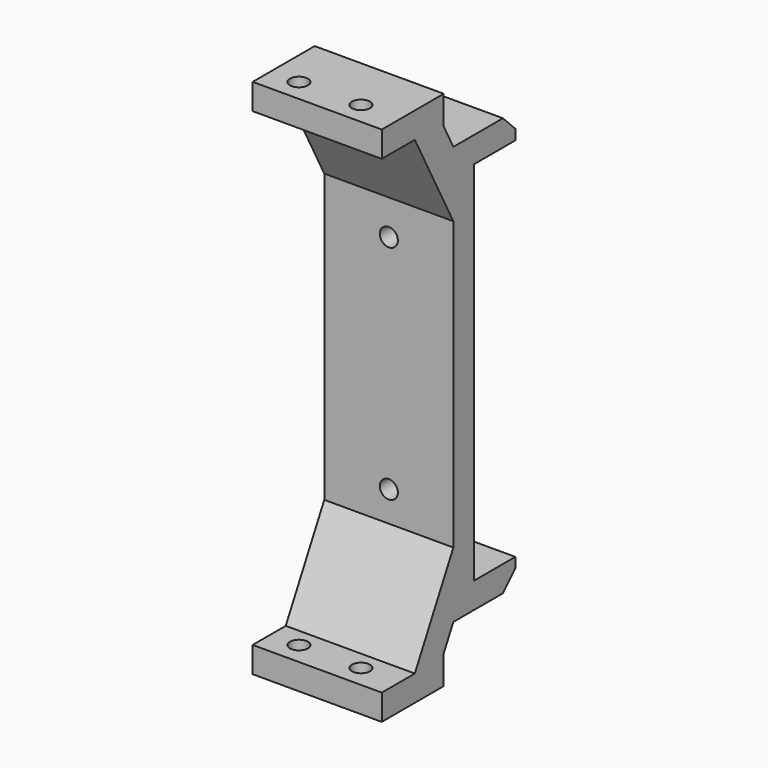
from build123d import *

# Parameters (mm, degrees)
CYLINDER024_R          = 1.75
CYLINDER024_DEPTH      = 20
CYLINDER023_R          = 1.75
CYLINDER023_DEPTH      = 20
CYLINDER022_R          = 1.75
CYLINDER022_DEPTH      = 20
CYLINDER021_R          = 1.75
CYLINDER021_DEPTH      = 20
CYLINDER018_R          = 1.75
CYLINDER018_DEPTH      = 20
CYLINDER018_ROLL_ANGLE = 90
CYLINDER017_R          = 1.75
CYLINDER017_DEPTH      = 20
CYLINDER017_ROLL_ANGLE = 90
PAD006_DEPTH           = 25
CHAMFER006_SIZE        = 3


with BuildPart() as cylinder059:
    # Cylinder024 → Cylinder024 (new body)
    with BuildSketch(Plane(origin=(40, -18, -24), x_dir=(1, 0, 0), z_dir=(0, 0, 1))):
        Circle(CYLINDER024_R)
    extrude(amount=CYLINDER024_DEPTH)


with BuildPart() as cylinder058:
    # Cylinder023 → Cylinder023 (new body)
    with BuildSketch(Plane(origin=(28, -18, -24), x_dir=(1, 0, 0), z_dir=(0, 0, 1))):
        Circle(CYLINDER023_R)
    extrude(amount=CYLINDER023_DEPTH)


with BuildPart() as cylinder057:
    # Cylinder022 → Cylinder022 (new body)
    with BuildSketch(Plane(origin=(40, -18, 77), x_dir=(1, 0, 0), z_dir=(0, 0, 1))):
        Circle(CYLINDER022_R)
    extrude(amount=CYLINDER022_DEPTH)


with BuildPart() as cylinder056:
    # Cylinder021 → Cylinder021 (new body)
    with BuildSketch(Plane(origin=(28, -18, 77), x_dir=(1, 0, 0), z_dir=(0, 0, 1))):
        Circle(CYLINDER021_R)
    extrude(amount=CYLINDER021_DEPTH)


with BuildPart() as cylinder053:
    # Cylinder018 → Cylinder018 (new body)
    with BuildSketch(Plane.XY):
        Circle(CYLINDER018_R)
    extrude(amount=CYLINDER018_DEPTH)


with BuildPart() as cylinder053_1:
    # Cylinder018 roll: moved
    add(cylinder053.part.rotate(Axis((0, 0, 0), (1, 0, 0)), CYLINDER018_ROLL_ANGLE))


with BuildPart() as cylinder053_2:
    # Cylinder018 placement: moved
    add(cylinder053_1.part.moved(Location((35, 10, 13))))


with BuildPart() as cylinder052:
    # Cylinder017 → Cylinder017 (new body)
    with BuildSketch(Plane.XY):
        Circle(CYLINDER017_R)
    extrude(amount=CYLINDER017_DEPTH)


with BuildPart() as cylinder052_1:
    # Cylinder017 roll: moved
    add(cylinder052.part.rotate(Axis((0, 0, 0), (1, 0, 0)), CYLINDER017_ROLL_ANGLE))


with BuildPart() as cylinder052_2:
    # Cylinder017 placement: moved
    add(cylinder052_1.part.moved(Location((35, 10, 56))))


with BuildPart() as obj1:
    # Sketch012 → Pad006 (new body)
    with BuildSketch(Plane(origin=(47.5, 0, -0.5), x_dir=(0, 0, 1), z_dir=(-1, 0, 0))):
        Polygon((-0.046577, 10.001707), (-0.046577, 0.001707), (70.953423, 0.001707), (70.953423, 10.001707), (75.953423, 10.001707), (75.953423, -4.998293), (80.375589, -7.331627), (85.953423, -7.331627), (85.953423, -22.331627), (80.953423, -22.331627), (80.953423, -14.331627), (63.264757, -4.998293), (7.642088, -4.998293), (-10.046577, -14.331627), (-10.046577, -22.331627), (-15.046577, -22.331627), (-15.046577, -7.331627), (-9.468744, -7.331627), (-5.046577, -4.998293), (-5.046577, 10.001707), align=None)
    extrude(amount=PAD006_DEPTH)

    # Cut037: cut Cylinder052
    add(cylinder052_2.part, mode=Mode.SUBTRACT)

    # Cut038: cut Cylinder053
    add(cylinder053_2.part, mode=Mode.SUBTRACT)

    # Cut045: cut Cylinder056
    add(cylinder056.part, mode=Mode.SUBTRACT)

    # Cut046: cut Cylinder057
    add(cylinder057.part, mode=Mode.SUBTRACT)

    # Cut047: cut Cylinder058
    add(cylinder058.part, mode=Mode.SUBTRACT)

    # Cut048: cut Cylinder059
    add(cylinder059.part, mode=Mode.SUBTRACT)

    # Chamfer006
    chamfer006_edges = [obj1.edges().sort_by_distance(p)[0] for p in [
        (35, 10.001707, 75.453423),
        (35, 10.001707, -5.546577),
    ]]
    chamfer(chamfer006_edges, length=CHAMFER006_SIZE)


solid = obj1.part
